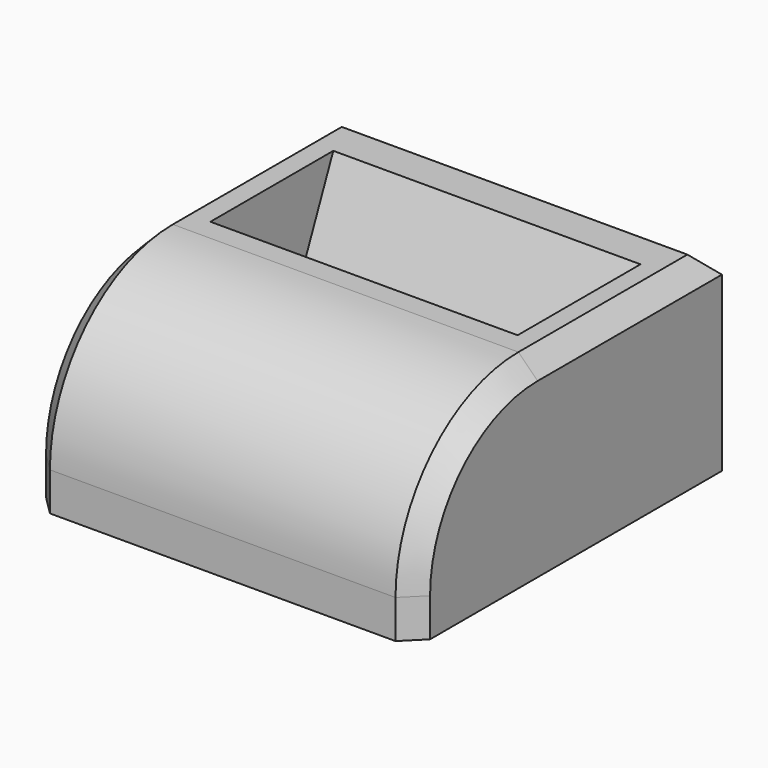
from build123d import *

# Parameters (mm, degrees)
F0_W     = 100
F0_H     = 50
F1_DEPTH = 50
F3_DEPTH = 40
F4_R     = 40
F5_SIZE  = 5
F6_SIZE  = 5
F7_SIZE  = 5


with BuildPart() as f1:
    # F0 (on Front) → F1 (new body, symmetric)
    with BuildSketch(Plane.XZ):
        with Locations((-0.236801, -24.486255)):
            Rectangle(F0_W, F0_H)
    extrude(amount=F1_DEPTH, both=True)

    # F2 (on Right) → F3 (cut, symmetric)
    with BuildSketch(Plane.YZ):
        Polygon((20.232478, -35.412774), (40, 10.513745), (0, 10.513745), (-19.767522, -35.412774), align=None)
    extrude(amount=F3_DEPTH, both=True, mode=Mode.SUBTRACT)

    # F4
    f4_edges = [f1.edges().sort_by_distance(p)[0] for p in [
        (-0.236801, -50, 0.513745),
    ]]
    fillet(f4_edges, radius=F4_R)

    # F5
    f5_edges = [f1.edges().sort_by_distance(p)[0] for p in [
        (-50.236801, 20, 0.513745),
    ]]
    chamfer(f5_edges, length=F5_SIZE)

    # F6
    f6_edges = [f1.edges().sort_by_distance(p)[0] for p in [
        (49.763199, 20, 0.513745),
    ]]
    chamfer(f6_edges, length=F6_SIZE)

    # F7
    f7_edges = [f1.edges().sort_by_distance(p)[0] for p in [
        (-0.236801, 50, 0.513745),
    ]]
    chamfer(f7_edges, length=F7_SIZE)


solid = f1.part
